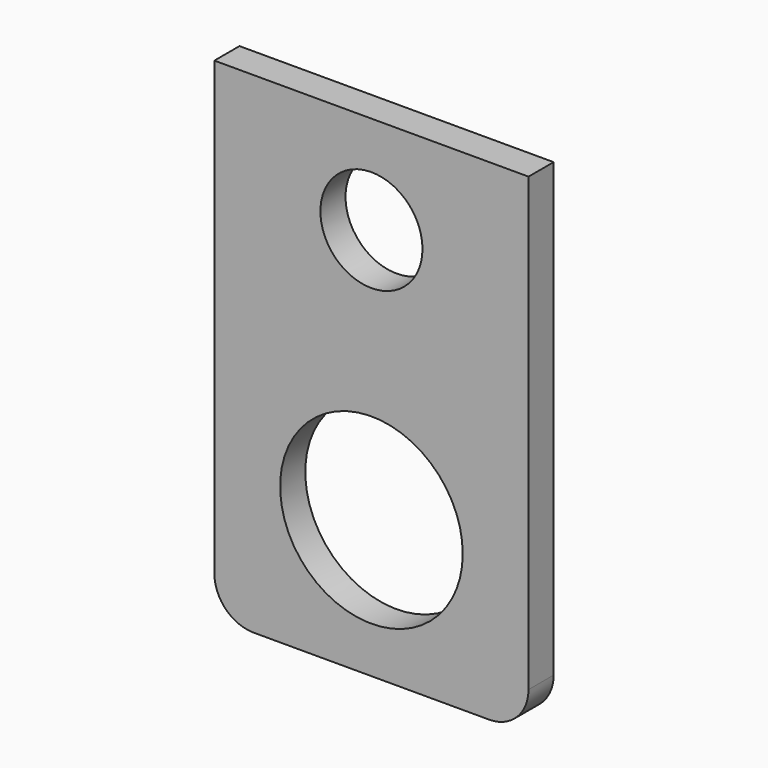
from build123d import *

# Parameters (mm, degrees)
F0_R     = 23.25
F0_R_2   = 13
F1_DEPTH = 8


with BuildPart() as f1:
    # F0 (on Front) → F1 (new body)
    with BuildSketch(Plane.XZ):
        with BuildLine():
            Line((40, -52.5), (40, 62.5))
            Line((40, 62.5), (-40, 62.5))
            Line((-40, 62.5), (-40, -52.5))
            ThreePointArc((-40, -52.5), (-37.071068, -59.571068), (-30, -62.5))
            Line((-30, -62.5), (30, -62.5))
            ThreePointArc((30, -62.5), (37.071068, -59.571068), (40, -52.5))
        make_face()
        with Locations((0, -27.5)):
            Circle(F0_R, mode=Mode.SUBTRACT)
        with Locations((0, 37.5)):
            Circle(F0_R_2, mode=Mode.SUBTRACT)
    extrude(amount=F1_DEPTH)


solid = f1.part
